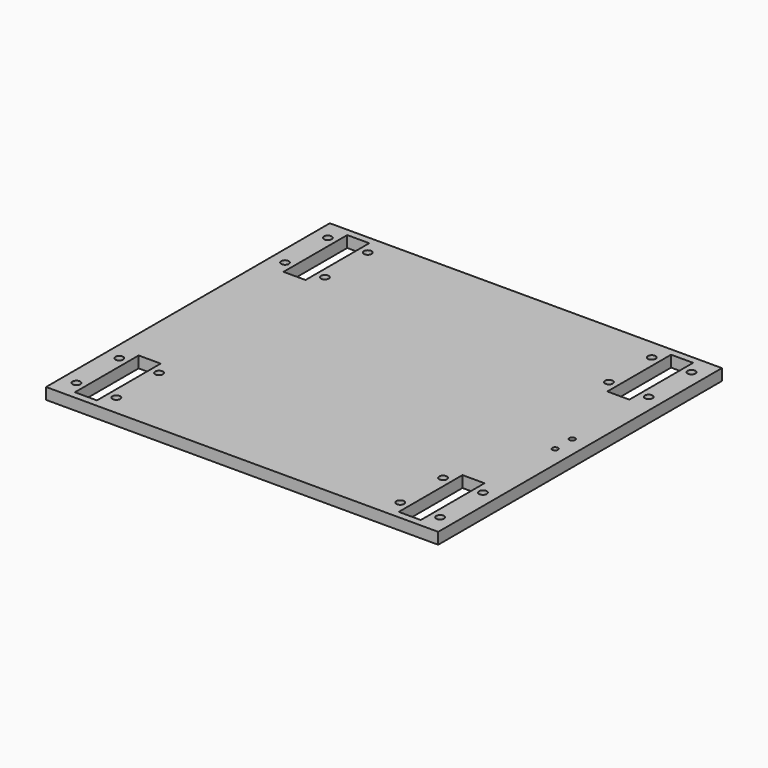
from build123d import *

# Parameters (mm, degrees)
F0_W     = 175.01715
F0_H     = 158.2801
F0_R     = 1.7272
F0_W_2   = 9.8425
F0_H_2   = 35.56
F0_R_2   = 1.25
F1_DEPTH = 5.08


with BuildPart() as f1:
    # F0 (on Top) → F1 (new body)
    with BuildSketch(Plane.XY):
        Rectangle(F0_W, F0_H)
        with Locations((-81.158575, -70.12305)):
            Circle(F0_R, mode=Mode.SUBTRACT)
        with Locations((-63.378575, -70.12305)):
            Circle(F0_R, mode=Mode.SUBTRACT)
        with Locations((-72.268575, -58.18505)):
            Rectangle(F0_W_2, F0_H_2, mode=Mode.SUBTRACT)
        with Locations((-81.158575, -46.24705)):
            Circle(F0_R, mode=Mode.SUBTRACT)
        with Locations((-63.378575, -46.24705)):
            Circle(F0_R, mode=Mode.SUBTRACT)
        with Locations((63.378575, -70.12305)):
            Circle(F0_R, mode=Mode.SUBTRACT)
        with Locations((81.158575, -70.12305)):
            Circle(F0_R, mode=Mode.SUBTRACT)
        with Locations((63.378575, -46.24705)):
            Circle(F0_R, mode=Mode.SUBTRACT)
        with Locations((72.268575, -58.18505)):
            Rectangle(F0_W_2, F0_H_2, mode=Mode.SUBTRACT)
        with Locations((81.158575, -46.24705)):
            Circle(F0_R, mode=Mode.SUBTRACT)
        with Locations((80.208564, -4.750003)):
            Circle(F0_R_2, mode=Mode.SUBTRACT)
        with Locations((-81.158575, 46.24705)):
            Circle(F0_R, mode=Mode.SUBTRACT)
        with Locations((-72.268575, 58.18505)):
            Rectangle(F0_W_2, F0_H_2, mode=Mode.SUBTRACT)
        with Locations((-63.378575, 46.24705)):
            Circle(F0_R, mode=Mode.SUBTRACT)
        with Locations((-81.158575, 70.12305)):
            Circle(F0_R, mode=Mode.SUBTRACT)
        with Locations((-63.378575, 70.12305)):
            Circle(F0_R, mode=Mode.SUBTRACT)
        with Locations((80.208564, 4.750003)):
            Circle(F0_R_2, mode=Mode.SUBTRACT)
        with Locations((63.378575, 46.24705)):
            Circle(F0_R, mode=Mode.SUBTRACT)
        with Locations((81.158575, 46.24705)):
            Circle(F0_R, mode=Mode.SUBTRACT)
        with Locations((72.268575, 58.18505)):
            Rectangle(F0_W_2, F0_H_2, mode=Mode.SUBTRACT)
        with Locations((63.378575, 70.12305)):
            Circle(F0_R, mode=Mode.SUBTRACT)
        with Locations((81.158575, 70.12305)):
            Circle(F0_R, mode=Mode.SUBTRACT)
    extrude(amount=F1_DEPTH)


solid = f1.part
